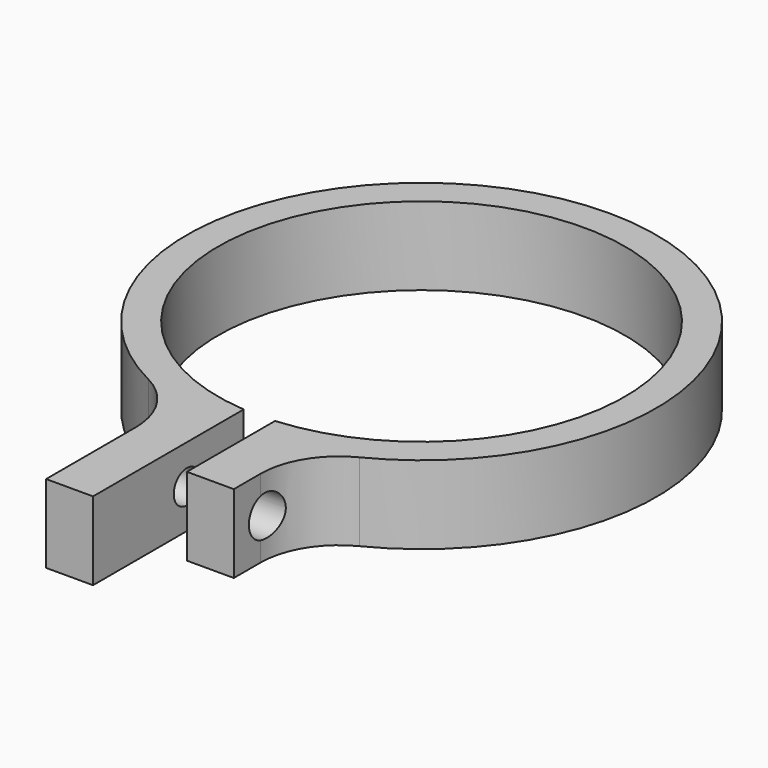
from build123d import *

# Parameters (mm, degrees)
F1_DEPTH = 10
F3_DEPTH = 25
F4_R     = 2.6
F5_DEPTH = 25


with BuildPart() as f1:
    # F0 (on Top) → F1 (new body)
    with BuildSketch(Plane.XY):
        with BuildLine():
            ThreePointArc((-2, -25.922963), (0, 26), (2, -25.922963))
            Line((2, -25.922963), (2, -40))
            Line((2, -40), (8, -40))
            Line((8, -40), (8, -35.721142))
            ThreePointArc((8, -35.721142), (9.485307, -30.477098), (13.5, -26.790857))
            ThreePointArc((13.5, -26.790857), (0, 30), (-13.5, -26.790857))
            ThreePointArc((-13.5, -26.790857), (-9.485307, -30.477098), (-8, -35.721142))
            Line((-8, -35.721142), (-8, -50))
            Line((-8, -50), (-2, -50))
            Line((-2, -50), (-2, -25.922963))
        make_face()
    extrude(amount=F1_DEPTH)

    # F2 (on Right) → F3 (cut)
    with BuildSketch(Plane.YZ):
        with BuildLine():
            ThreePointArc((-37.1, 5), (-35, 2.9), (-32.9, 5))
            ThreePointArc((-32.9, 5), (-35, 7.1), (-37.1, 5))
        make_face()
    extrude(amount=-F3_DEPTH, mode=Mode.SUBTRACT)

    # F4 (on Right) → F5 (cut)
    with BuildSketch(Plane.YZ):
        with Locations((-35, 5)):
            Circle(F4_R)
    extrude(amount=F5_DEPTH, mode=Mode.SUBTRACT)


solid = f1.part
